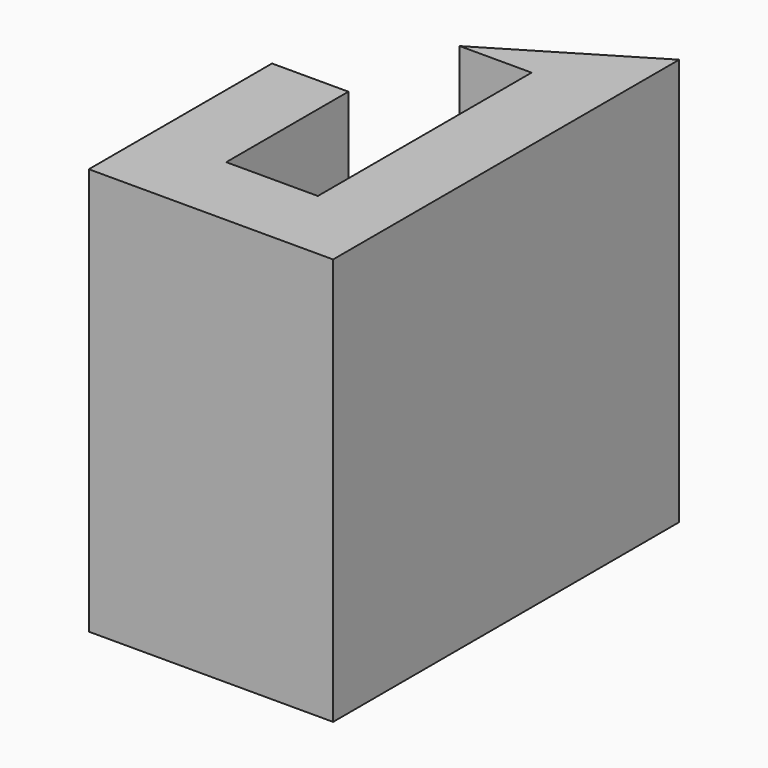
from build123d import *

# Parameters (mm, degrees)
PAD_DEPTH = 16


with BuildPart() as part:
    # Sketch → Pad (new body)
    with BuildSketch(Plane.XY):
        Polygon((-4.8, 1.569377), (-1.8, 1.569377), (-1.8, -4.430623), (1.8, -4.430623), (1.8, 6.069377), (-1.024177, 6.069377), (4.8, 9.569377), (4.8, -7.430623), (-4.8, -7.430623), align=None)
    extrude(amount=PAD_DEPTH)


solid = part.part
